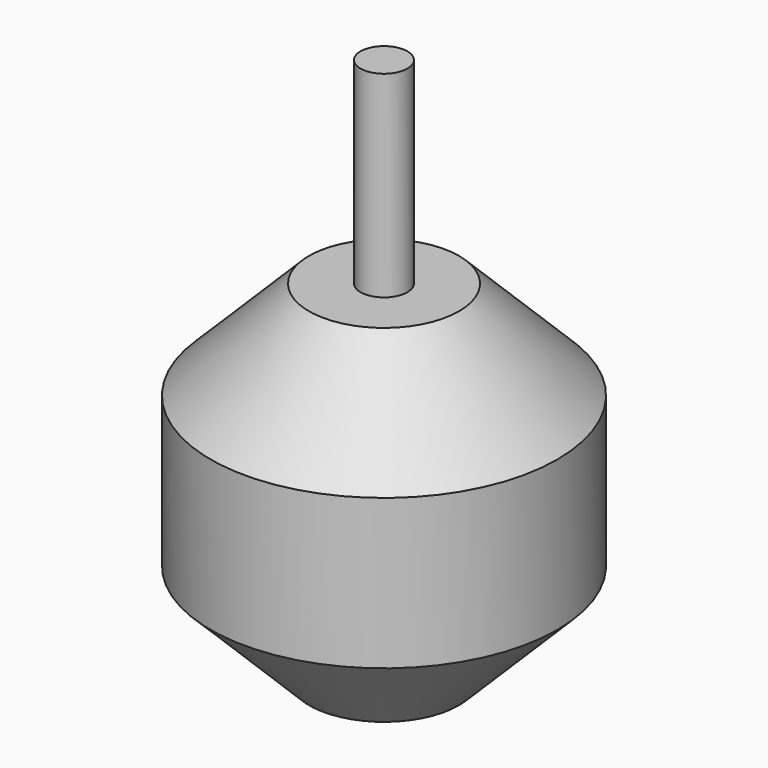
from build123d import *

# Parameters (mm, degrees)
F0_R     = 18.5
F1_DEPTH = 16
F2_R     = 18.5
F3_DEPTH = 10.5
F4_SIZE2 = 10.5
F4_SIZE  = 10.5
F5_R     = 18.5
F6_DEPTH = 10.5
F7_SIZE2 = 10.5
F7_SIZE  = 10.5
F8_R     = 2.5
F9_DEPTH = 21


with BuildPart() as f1:
    # F0 (on Top) → F1 (new body)
    with BuildSketch(Plane.XY):
        with Locations((-45.2287606895, 10.8666494489)):
            Circle(F0_R)
    extrude(amount=F1_DEPTH)

    # F2 (on face) → F3 (join)
    with BuildSketch(Plane(origin=(0, 0, 0), x_dir=(1, 0, 0), z_dir=(0, 0, -1))):
        with Locations((-45.2287606895, -10.8666494489)):
            Circle(F2_R)
    extrude(amount=F3_DEPTH)

    # F4
    f4_edges = [f1.edges().sort_by_distance(p)[0] for p in [
        (-63.728761, 10.866649, -10.5),
    ]]
    chamfer(f4_edges, length=F4_SIZE, length2=F4_SIZE2)

    # F5 (on face) → F6 (join)
    with BuildSketch(Plane.XY.offset(16)):
        with Locations((-45.2287606895, 10.8666494489)):
            Circle(F5_R)
    extrude(amount=F6_DEPTH)

    # F7
    f7_edges = [f1.edges().sort_by_distance(p)[0] for p in [
        (-63.728761, 10.866649, 26.5),
    ]]
    chamfer(f7_edges, length=F7_SIZE, length2=F7_SIZE2)

    # F8 (on face) → F9 (join)
    with BuildSketch(Plane.XY.offset(26.5)):
        with Locations((-45.2287606895, 10.8666494489)):
            Circle(F8_R)
    extrude(amount=F9_DEPTH)


solid = f1.part
